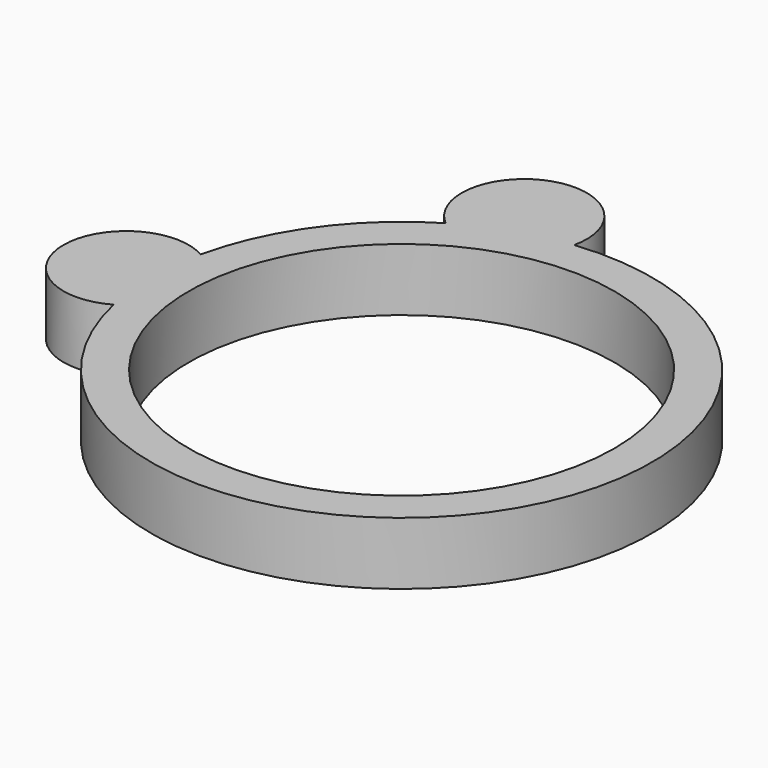
from build123d import *

# Parameters (mm, degrees)
CYLINDER003_R     = 5
CYLINDER003_DEPTH = 5
CYLINDER002_R     = 5
CYLINDER002_DEPTH = 5
CYLINDER001_R     = 17
CYLINDER001_DEPTH = 5
CYLINDER_R        = 20
CYLINDER_DEPTH    = 5


with BuildPart() as cilindro003:
    # Cylinder003 → Cylinder003 (new body)
    with BuildSketch(Plane(origin=(-7, 21, 0), x_dir=(1, 0, 0), z_dir=(0, 0, 1))):
        Circle(CYLINDER003_R)
    extrude(amount=CYLINDER003_DEPTH)


with BuildPart() as cilindro002:
    # Cylinder002 → Cylinder002 (new body)
    with BuildSketch(Plane(origin=(-22, 0, 0), x_dir=(1, 0, 0), z_dir=(0, 0, 1))):
        Circle(CYLINDER002_R)
    extrude(amount=CYLINDER002_DEPTH)


with BuildPart() as cilindro001:
    # Cylinder001 → Cylinder001 (new body)
    with BuildSketch(Plane.XY):
        Circle(CYLINDER001_R)
    extrude(amount=CYLINDER001_DEPTH)


with BuildPart() as fusion001:
    # Cylinder → Cylinder (new body)
    with BuildSketch(Plane.XY):
        Circle(CYLINDER_R)
    extrude(amount=CYLINDER_DEPTH)

    # Cut: cut Cilindro001
    add(cilindro001.part, mode=Mode.SUBTRACT)

    # Fusion: union Cilindro002
    add(cilindro002.part)

    # Fusion001: union Cilindro003
    add(cilindro003.part)


solid = fusion001.part
